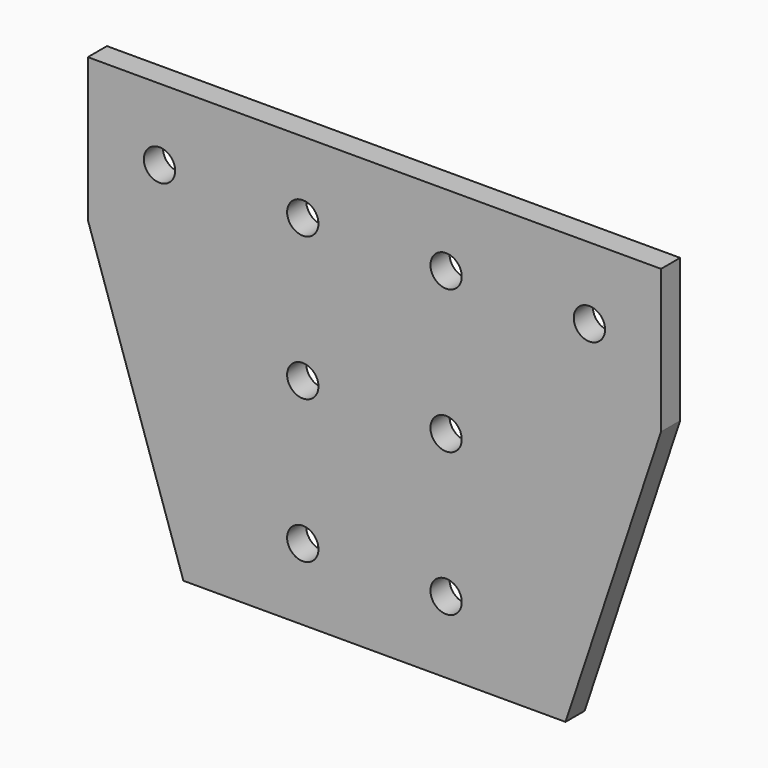
from build123d import *

# Parameters (mm, degrees)
F1_DEPTH = 6.35
F2_D     = 8.3312
F3_D     = 8.3312
F4_D     = 8.3312
F5_D     = 8.3312
F6_D     = 8.3312
F7_D     = 8.3312
F8_D     = 8.3312
F9_D     = 8.3312


with BuildPart() as f1:
    # F0 (on Front) → F1 (new body)
    with BuildSketch(Plane.XZ):
        Polygon((76.2, 57.15), (-76.2, 57.15), (-76.2, 19.05), (-50.8, -57.15), (50.8, -57.15), (76.2, 19.05), align=None)
    extrude(amount=F1_DEPTH)

    # F2 (through all)
    with Locations(Plane(origin=(0, 0, 0), x_dir=(1, 0, 0), z_dir=(0, 1, 0))):
        with Locations((57.15, -38.1)):
            Hole(F2_D / 2)

    # F3 (through all)
    with Locations(Plane(origin=(0, 0, 0), x_dir=(1, 0, 0), z_dir=(0, 1, 0))):
        with Locations((19.05, -38.1)):
            Hole(F3_D / 2)

    # F4 (through all)
    with Locations(Plane(origin=(0, 0, 0), x_dir=(1, 0, 0), z_dir=(0, 1, 0))):
        with Locations((-19.05, -38.1)):
            Hole(F4_D / 2)

    # F5 (through all)
    with Locations(Plane(origin=(0, 0, 0), x_dir=(1, 0, 0), z_dir=(0, 1, 0))):
        with Locations((-57.15, -38.1)):
            Hole(F5_D / 2)

    # F6 (through all)
    with Locations(Plane(origin=(0, 0, 0), x_dir=(1, 0, 0), z_dir=(0, 1, 0))):
        with Locations((-19.05, 0)):
            Hole(F6_D / 2)

    # F7 (through all)
    with Locations(Plane(origin=(0, 0, 0), x_dir=(1, 0, 0), z_dir=(0, 1, 0))):
        with Locations((19.05, 0)):
            Hole(F7_D / 2)

    # F8 (through all)
    with Locations(Plane(origin=(0, 0, 0), x_dir=(1, 0, 0), z_dir=(0, 1, 0))):
        with Locations((-19.05, 38.1)):
            Hole(F8_D / 2)

    # F9 (through all)
    with Locations(Plane(origin=(0, 0, 0), x_dir=(1, 0, 0), z_dir=(0, 1, 0))):
        with Locations((19.05, 38.1)):
            Hole(F9_D / 2)


solid = f1.part
